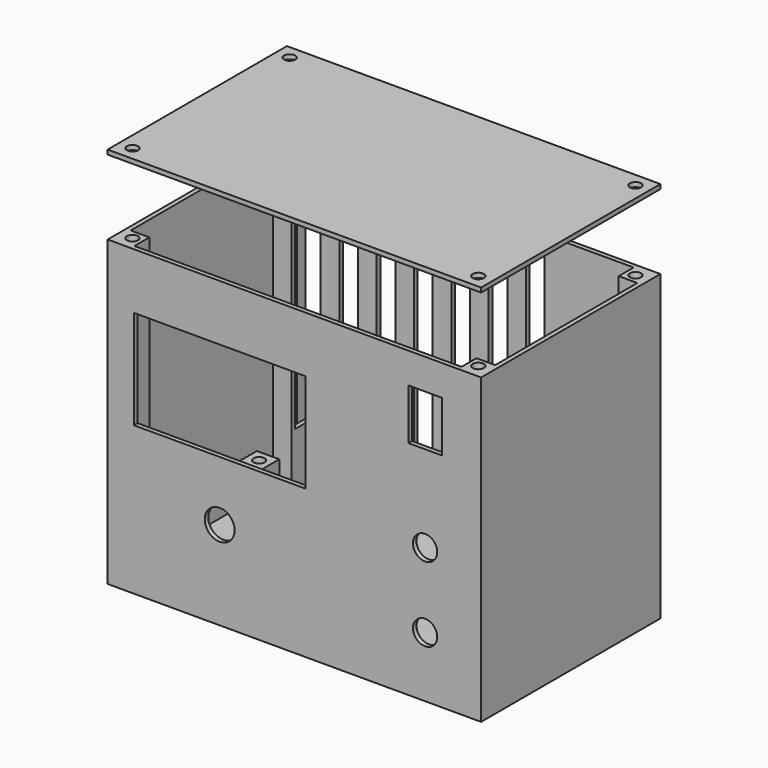
from build123d import *

# Parameters (mm, degrees)
SKETCH_W        = 100
SKETCH_H        = 60
PAD_DEPTH       = 1.2
SKETCH001_W     = 100
SKETCH001_H     = 60
SKETCH001_W_2   = 97.6
SKETCH001_H_2   = 57.6
PAD001_DEPTH    = 80
SKETCH003_W     = 5
SKETCH003_H     = 5
SKETCH003_R     = 1.5
PAD002_DEPTH    = 80
SKETCH004_W     = 6
SKETCH004_H     = 6
SKETCH004_R     = 1.5
PAD003_DEPTH    = 15
SKETCH005_R     = 4
SKETCH005_R_2   = 3.25
SKETCH005_W     = 46
SKETCH005_H     = 26.5
SKETCH005_W_2   = 9
SKETCH005_H_2   = 13.6
POCKET_DEPTH    = 5
SKETCH007_R     = 6.25
SKETCH007_W     = 5
SKETCH007_H     = 60
SKETCH007_H_2   = 60.022241
POCKET001_DEPTH = 5
SKETCH008_W     = 100
SKETCH008_H     = 60
SKETCH008_R     = 1.5
PAD004_DEPTH    = 1.2


with BuildPart() as body:
    # Sketch → Pad (new body)
    with BuildSketch(Plane.XY):
        with Locations((50, 30)):
            Rectangle(SKETCH_W, SKETCH_H)
    extrude(amount=PAD_DEPTH)

    # Sketch001 (on Face6 of Pad) → Pad001 (join)
    with BuildSketch(Plane.XY.offset(1.2)):
        with Locations((50, 30)):
            Rectangle(SKETCH001_W, SKETCH001_H)
        with Locations((50, 30)):
            Rectangle(SKETCH001_W_2, SKETCH001_H_2, mode=Mode.SUBTRACT)
    extrude(amount=PAD001_DEPTH)

    # Sketch003 (on Face15 of Pad001) → Pad002 (join)
    with BuildSketch(Plane.XY.offset(1.2)):
        with Locations((3.7, 56.3)):
            Rectangle(SKETCH003_W, SKETCH003_H)
        with Locations((3.7, 56.3)):
            Circle(SKETCH003_R, mode=Mode.SUBTRACT)
        with Locations((96.3, 56.3)):
            Rectangle(SKETCH003_W, SKETCH003_H)
        with Locations((96.3, 56.3)):
            Circle(SKETCH003_R, mode=Mode.SUBTRACT)
        with Locations((96.3, 3.7)):
            Rectangle(SKETCH003_W, SKETCH003_H)
        with Locations((96.3, 3.7)):
            Circle(SKETCH003_R, mode=Mode.SUBTRACT)
        with Locations((3.7, 3.7)):
            Rectangle(SKETCH003_W, SKETCH003_H)
        with Locations((3.7, 3.7)):
            Circle(SKETCH003_R, mode=Mode.SUBTRACT)
    extrude(amount=PAD002_DEPTH)

    # Sketch004 (on Face22 of Pad002) → Pad003 (join)
    with BuildSketch(Plane.XY.offset(1.2)):
        with Locations((9.2, 4.2)):
            Rectangle(SKETCH004_W, SKETCH004_H)
        with Locations((9.2, 4.2)):
            Circle(SKETCH004_R, mode=Mode.SUBTRACT)
        with Locations((64.2, 4.2)):
            Rectangle(SKETCH004_W, SKETCH004_H)
        with Locations((64.2, 4.2)):
            Circle(SKETCH004_R, mode=Mode.SUBTRACT)
        with Locations((9.2, 39.2)):
            Rectangle(SKETCH004_W, SKETCH004_H)
        with Locations((9.2, 39.2)):
            Circle(SKETCH004_R, mode=Mode.SUBTRACT)
        with Locations((64.2, 39.2)):
            Rectangle(SKETCH004_W, SKETCH004_H)
        with Locations((64.2, 39.2)):
            Circle(SKETCH004_R, mode=Mode.SUBTRACT)
    extrude(amount=PAD003_DEPTH)

    # Sketch005 (on Face5 of Pad003) → Pocket (cut)
    with BuildSketch(Plane.XZ):
        with Locations((30, 23.7)):
            Circle(SKETCH005_R)
        with Locations((85, 16.2)):
            Circle(SKETCH005_R_2)
        with Locations((85, 36.2)):
            Circle(SKETCH005_R_2)
        with Locations((30, 52.95)):
            Rectangle(SKETCH005_W, SKETCH005_H)
        with Locations((85, 66.2)):
            Rectangle(SKETCH005_W_2, SKETCH005_H_2)
    extrude(amount=-POCKET_DEPTH, mode=Mode.SUBTRACT)

    # Sketch007 (on Face21 of Pocket) → Pocket001 (cut)
    with BuildSketch(Plane(origin=(0, 60, 0), x_dir=(-1, 0, 0), z_dir=(0, 1, 0))):
        with Locations((-82, 16.2)):
            Circle(SKETCH007_R)
        with Locations((-7.5, 46.2)):
            Rectangle(SKETCH007_W, SKETCH007_H)
        with Locations((-17.5, 46.2)):
            Rectangle(SKETCH007_W, SKETCH007_H)
        with Locations((-27.5, 46.188879)):
            Rectangle(SKETCH007_W, SKETCH007_H_2)
        with Locations((-37.5, 46.188879)):
            Rectangle(SKETCH007_W, SKETCH007_H_2)
        with Locations((-47.5, 46.188879)):
            Rectangle(SKETCH007_W, SKETCH007_H_2)
        with Locations((-57.5, 46.188879)):
            Rectangle(SKETCH007_W, SKETCH007_H_2)
        with Locations((-67.5, 46.188879)):
            Rectangle(SKETCH007_W, SKETCH007_H_2)
    extrude(amount=-POCKET001_DEPTH, mode=Mode.SUBTRACT)


with BuildPart() as body001:
    # Sketch008 (on ShapeBinder) → Pad004 (new body)
    with BuildSketch(Plane.XY.offset(81.2)):
        with Locations((50, 30)):
            Rectangle(SKETCH008_W, SKETCH008_H)
        with Locations((3.7, 56.3)):
            Circle(SKETCH008_R, mode=Mode.SUBTRACT)
        with Locations((96.3, 56.3)):
            Circle(SKETCH008_R, mode=Mode.SUBTRACT)
        with Locations((96.3, 3.7)):
            Circle(SKETCH008_R, mode=Mode.SUBTRACT)
        with Locations((3.7, 3.7)):
            Circle(SKETCH008_R, mode=Mode.SUBTRACT)
    extrude(amount=PAD004_DEPTH)


with BuildPart() as body001_1:
    # Body001 placement: moved
    add(body001.part.moved(Location((0, 0, 20))))


solid = Compound([body.part, body001_1.part])
